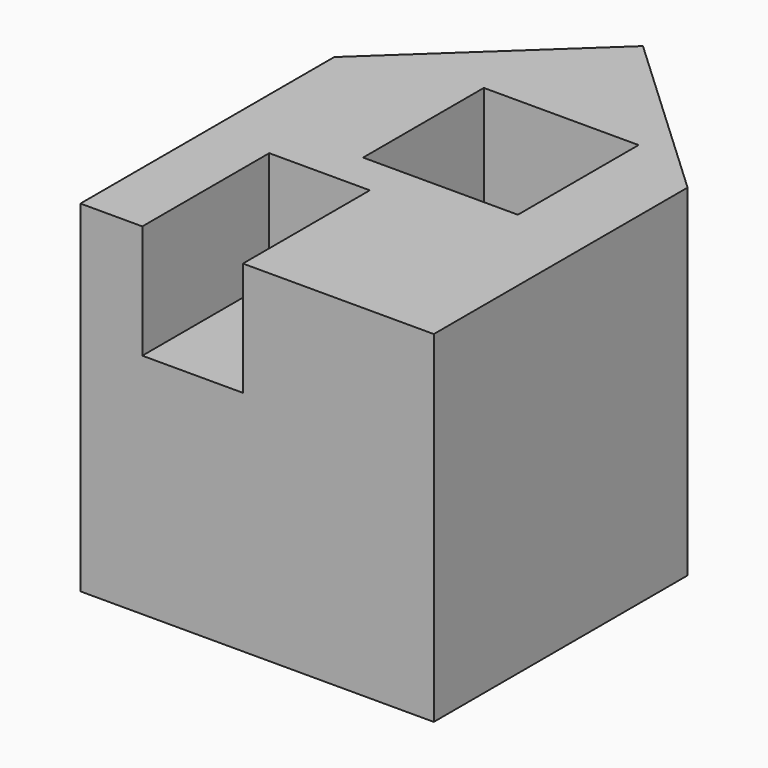
from build123d import *

# Parameters (mm, degrees)
F0_W     = 78.858778
F0_H     = 70.800216
F1_DEPTH = 76.2
F2_W     = 22.448848
F2_H     = 35.400108
F3_DEPTH = 25.4
F5_W     = 34.536688
F5_H     = 33.673274
F6_DEPTH = 25.4


with BuildPart() as f1:
    # F0 (on Top) → F1 (new body)
    with BuildSketch(Plane.XY):
        Rectangle(F0_W, F0_H)
        Polygon((0, 72.239242), (-39.429389, 35.400108), (39.429389, 35.400108), align=None)
    extrude(amount=F1_DEPTH)

    # F2 (on face) → F3 (cut)
    with BuildSketch(Plane.XY.offset(76.2)):
        with Locations((-14.390288, -17.700054)):
            Rectangle(F2_W, F2_H)
    extrude(amount=-F3_DEPTH, mode=Mode.SUBTRACT)

    # F5 (on face) → F6 (cut)
    with BuildSketch(Plane.XY.offset(76.2)):
        with Locations((5.468308, 25.758615)):
            Rectangle(F5_W, F5_H)
    extrude(amount=-F6_DEPTH, mode=Mode.SUBTRACT)


solid = f1.part
